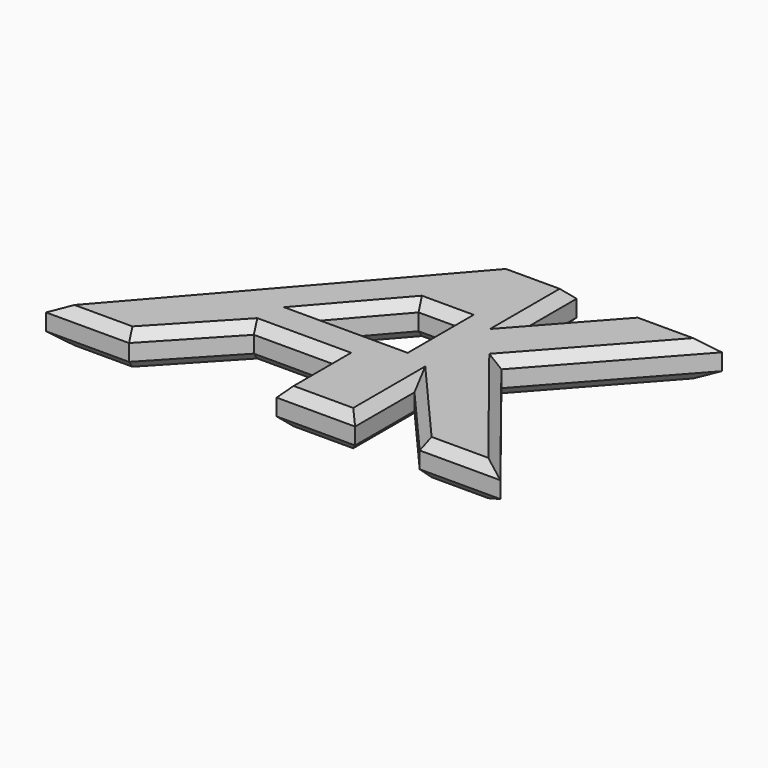
from build123d import *

# Parameters (mm, degrees)
F1_DEPTH = 7.62
F2_SIZE  = 2.032


with BuildPart() as f1:
    # F0 (on Top) → F1 (new body)
    with BuildSketch(Plane.XY):
        Polygon((-4.650212, 0), (0, 0), (13.123814, 0), (27.571009, 15.396307), (32.54258, 15.396307), (44.767726, 15.396307), (44.767726, 0), (58.344088, 0), (61.602417, 0), (61.602417, 13.099327), (61.602417, 15.906334), (75.450297, 0), (77.894047, 0), (92.737518, 0), (67.757033, 31.506918), (92.737518, 59.383705), (78.075059, 59.383705), (75.39035, 59.383705), (61.602417, 43.997165), (61.602417, 59.383705), (58.344088, 59.383705), (47.120962, 59.383705), align=None)
        Polygon((44.043656, 38.960008), (48.304201, 38.960008), (52.189469, 38.960008), (52.189469, 25.352303), (36.440898, 25.352303), (32.180353, 25.352303), align=None, mode=Mode.SUBTRACT)
    extrude(amount=F1_DEPTH)

    # F2
    f2_edges = [f1.edges().sort_by_distance(p)[0] for p in [
        (21.235375, 29.691853, 7.62),
        (4.236801, 0, 7.62),
        (20.347412, 7.698154, 7.62),
        (36.169368, 15.396307, 7.62),
        (44.767726, 7.698154, 7.62),
        (53.185072, 0, 7.62),
        (61.602417, 7.953167, 7.62),
        (68.526357, 7.953167, 7.62),
        (84.093908, 0, 7.62),
        (80.247276, 15.753459, 7.62),
        (80.247276, 45.445312, 7.62),
        (84.063934, 59.383705, 7.62),
        (68.496384, 51.690435, 7.62),
        (61.602417, 51.690435, 7.62),
        (54.36169, 59.383705, 7.62),
        (38.112005, 32.156156, 7.62),
        (48.116563, 38.960008, 7.62),
        (52.189469, 32.156156, 7.62),
        (42.184911, 25.352303, 7.62),
        (21.235375, 29.691853, 0),
        (4.236801, 0, 0),
        (20.347412, 7.698154, 0),
        (36.169368, 15.396307, 0),
        (44.767726, 7.698154, 0),
        (53.185072, 0, 0),
        (61.602417, 7.953167, 0),
        (68.526357, 7.953167, 0),
        (84.093908, 0, 0),
        (80.247276, 15.753459, 0),
        (80.247276, 45.445312, 0),
        (84.063934, 59.383705, 0),
        (68.496384, 51.690435, 0),
        (61.602417, 51.690435, 0),
        (54.36169, 59.383705, 0),
        (38.112005, 32.156156, 0),
        (48.116563, 38.960008, 0),
        (52.189469, 32.156156, 0),
        (42.184911, 25.352303, 0),
    ]]
    chamfer(f2_edges, length=F2_SIZE)


solid = f1.part
